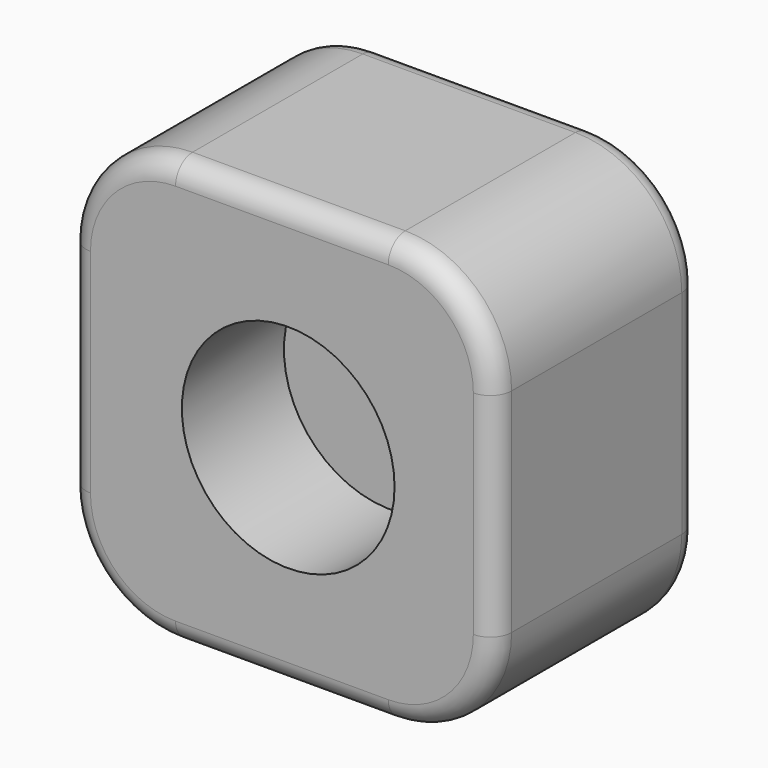
from build123d import *

# Parameters (mm, degrees)
F1_DEPTH = 60
F2_R     = 5
F3_R     = 5
F5_R     = 25
F6_DEPTH = 30
F7_R     = 25
F8_DEPTH = 30


with BuildPart() as f1:
    # F0 (on Front) → F1 (new body)
    with BuildSketch(Plane.XZ):
        with BuildLine():
            Line((28.855905, 44.195566), (-21.144095, 44.195566))
            ThreePointArc((-21.144095, 44.195566), (-38.821765, 36.873235), (-46.144095, 19.195566))
            Line((-46.144095, 19.195566), (-46.144095, 13.908361))
            Line((-46.144095, 13.908361), (-46.144095, 9.730815))
            Line((-46.144095, 9.730815), (-46.144095, -30.804434))
            ThreePointArc((-46.144095, -30.804434), (-38.821765, -48.482104), (-21.144095, -55.804434))
            Line((-21.144095, -55.804434), (28.855905, -55.804434))
            ThreePointArc((28.855905, -55.804434), (46.533574, -48.482104), (53.855905, -30.804434))
            Line((53.855905, -30.804434), (53.855905, 19.195566))
            ThreePointArc((53.855905, 19.195566), (46.533574, 36.873235), (28.855905, 44.195566))
        make_face()
    extrude(amount=F1_DEPTH)

    # F2
    f2_edges = [f1.edges().sort_by_distance(p)[0] for p in [
        (-38.821765, -60, 36.873235),
        (3.855905, -60, 44.195566),
        (-46.144095, -60, -5.804434),
        (-38.821765, -60, -48.482104),
        (3.855905, -60, -55.804434),
        (46.533574, -60, -48.482104),
        (53.855905, -60, -5.804434),
        (46.533574, -60, 36.873235),
    ]]
    fillet(f2_edges, radius=F2_R)

    # F3
    f3_edges = [f1.edges().sort_by_distance(p)[0] for p in [
        (53.855905, 0, -5.804434),
        (3.855905, 0, 44.195566),
        (-38.821765, 0, 36.873235),
        (-46.144095, 0, -5.804434),
        (-38.821765, 0, -48.482104),
        (3.855905, 0, -55.804434),
        (46.533574, 0, -48.482104),
        (46.533574, 0, 36.873235),
    ]]
    fillet(f3_edges, radius=F3_R)

    # F5 (on Front) → F6 (cut)
    with BuildSketch(Plane.XZ):
        Circle(F5_R)
    extrude(amount=-F6_DEPTH, mode=Mode.SUBTRACT)

    # F7 (on face) → F8 (cut)
    with BuildSketch(Plane.XZ.offset(60)):
        with Locations((5.336974, -6.285768)):
            Circle(F7_R)
    extrude(amount=-F8_DEPTH, mode=Mode.SUBTRACT)


solid = f1.part
